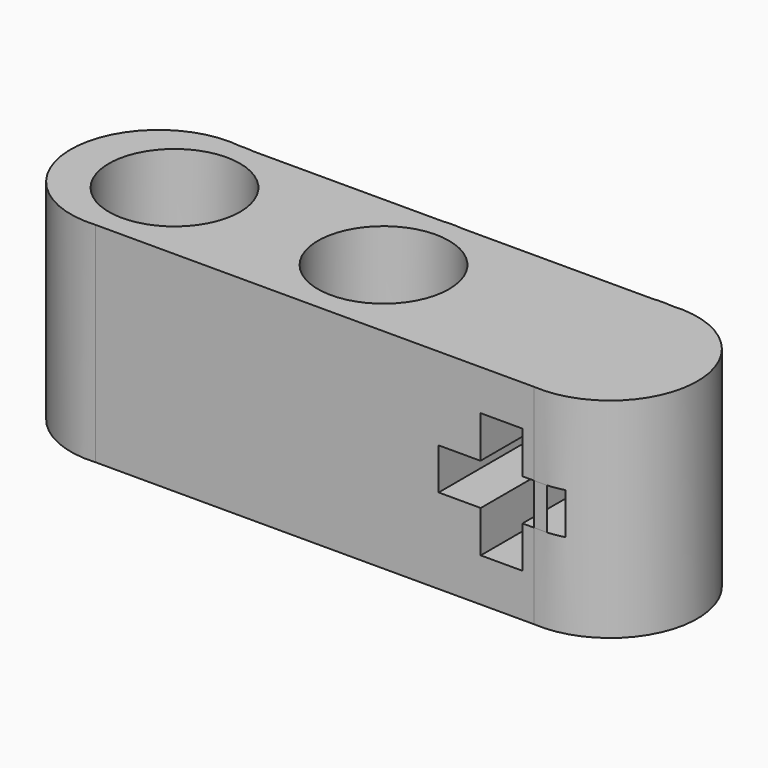
from build123d import *

# Parameters (mm, degrees)
F0_R     = 2.5093381746
F1_DEPTH = 8.0000094
F2_W     = 1.5980673197
F2_H     = 1.5967141371
F2_W_2   = 1.5545638741
F2_H_2   = 1.5875
F3_DEPTH = 838.2


with BuildPart() as f1:
    # F0 (on Top) → F1 (new body)
    with BuildSketch(Plane.XY):
        with BuildLine():
            Line((-8.3812647879, -3.3561703744), (8.3992933664, -3.3546466443))
            ThreePointArc((8.3992933664, -3.3546466443), (11.9919202899, -0.0033536688), (8.3615520536, 3.3070178042))
            Line((8.3615520536, 3.3070178042), (8.3336469392, 3.307015215))
            ThreePointArc((8.3336469392, 3.307015215), (10.4474847438, 2.216893609), (11.296194269, -0.0049001532))
            ThreePointArc((11.296194269, -0.0049001532), (5.7421154206, -2.4889123112), (7.5930959286, 3.3069465048))
            Line((7.5930959286, 3.3069465048), (0.3402174687, 3.3062735634))
            ThreePointArc((0.3402174687, 3.3062735634), (2.4496814323, 2.2144248936), (3.296184869, -0.0049001532))
            ThreePointArc((3.296184869, -0.0049001532), (-2.2554250593, -2.4911181706), (-0.4134932631, 3.3062036321))
            Line((-0.4134932631, 3.3062036321), (-7.6533263681, 3.3055319011))
            ThreePointArc((-7.6533263681, 3.3055319011), (-5.5481621287, 2.2119964092), (-4.703824531, -0.0049001532))
            ThreePointArc((-4.703824531, -0.0049001532), (-10.3410782709, -2.4119401956), (-8.1809826592, 3.3244749255))
            ThreePointArc((-8.1809826592, 3.3244749255), (-12.0065104511, 0.0958373525), (-8.3812647879, -3.3561703744))
        make_face()
        with BuildLine():
            ThreePointArc((11.296194269, -0.0049001532), (10.4474847438, 2.216893609), (8.3336469392, 3.307015215))
            Line((8.3336469392, 3.307015215), (7.5930959286, 3.3069465048))
            ThreePointArc((7.5930959286, 3.3069465048), (5.7421154206, -2.4889123112), (11.296194269, -0.0049001532))
        make_face()
        with BuildLine():
            Line((7.5930959286, 3.3069465048), (8.3336469392, 3.307015215))
            ThreePointArc((8.3336469392, 3.307015215), (7.9633695194, 3.3276153824), (7.5930959286, 3.3069465048))
        make_face()
        with BuildLine():
            ThreePointArc((-7.6533263681, 3.3055319011), (-7.916778762, 3.3254699436), (-8.1809826592, 3.3244749255))
            ThreePointArc((-8.1809826592, 3.3244749255), (-8.1209159952, 3.3155262987), (-8.0610207824, 3.3054940741))
            Line((-8.0610207824, 3.3054940741), (-7.6533263681, 3.3055319011))
        make_face()
        with BuildLine():
            ThreePointArc((-8.0610207824, 3.3054940741), (-8.1209159952, 3.3155262987), (-8.1809826592, 3.3244749255))
            ThreePointArc((-8.1809826592, 3.3244749255), (-10.3410782709, -2.4119401956), (-4.703824531, -0.0049001532))
            ThreePointArc((-4.703824531, -0.0049001532), (-5.5481621287, 2.2119964092), (-7.6533263681, 3.3055319011))
            Line((-7.6533263681, 3.3055319011), (-8.0610207824, 3.3054940741))
        make_face()
        with Locations((-8.0363400809, -0.0049001532)):
            Circle(F0_R, mode=Mode.SUBTRACT)
        with BuildLine():
            ThreePointArc((3.296184869, -0.0049001532), (2.4496814323, 2.2144248936), (0.3402174687, 3.3062735634))
            Line((0.3402174687, 3.3062735634), (-0.4134932631, 3.3062036321))
            ThreePointArc((-0.4134932631, 3.3062036321), (-2.2554250593, -2.4911181706), (3.296184869, -0.0049001532))
        make_face()
        with Locations((-0.0363306809, -0.0049001532)):
            Circle(F0_R, mode=Mode.SUBTRACT)
        with BuildLine():
            Line((-0.4134932631, 3.3062036321), (0.3402174687, 3.3062735634))
            ThreePointArc((0.3402174687, 3.3062735634), (-0.0366398806, 3.3276153824), (-0.4134932631, 3.3062036321))
        make_face()
    extrude(amount=F1_DEPTH)

    # F2 (on face) → F3 (cut)
    with BuildSketch(Plane(origin=(0.0003046822, -3.3554093002, 0), x_dir=(0.9999999959, 9.08033e-05, 0), z_dir=(9.08033e-05, -0.9999999959, 0))):
        Polygon((6.3544991001, 4.8407448495), (4.7542991001, 4.8407448495), (4.7542991001, 3.2532448495), (6.3641679063, 3.2532448495), (6.3641679063, 4.8407448495), align=None)
        Polygon((6.3544991001, 6.4478891691), (6.3544991001, 4.8407448495), (6.3641679063, 4.8407448495), (7.9165991001, 4.8407448495), (7.962235226, 4.8407448495), (7.962235226, 5.0536660092), (7.962235226, 6.4478891691), align=None)
        Polygon((7.9165991001, 4.8407448495), (6.3641679063, 4.8407448495), (6.3641679063, 3.2532448495), (7.962235226, 3.2532448495), (7.962235226, 4.8407448495), align=None)
        with Locations((7.1632015662, 2.4548877809)):
            Rectangle(F2_W, F2_H)
        with Locations((8.7395171631, 4.0469948495)):
            Rectangle(F2_W_2, F2_H_2)
    extrude(amount=-F3_DEPTH, mode=Mode.SUBTRACT)


solid = f1.part
